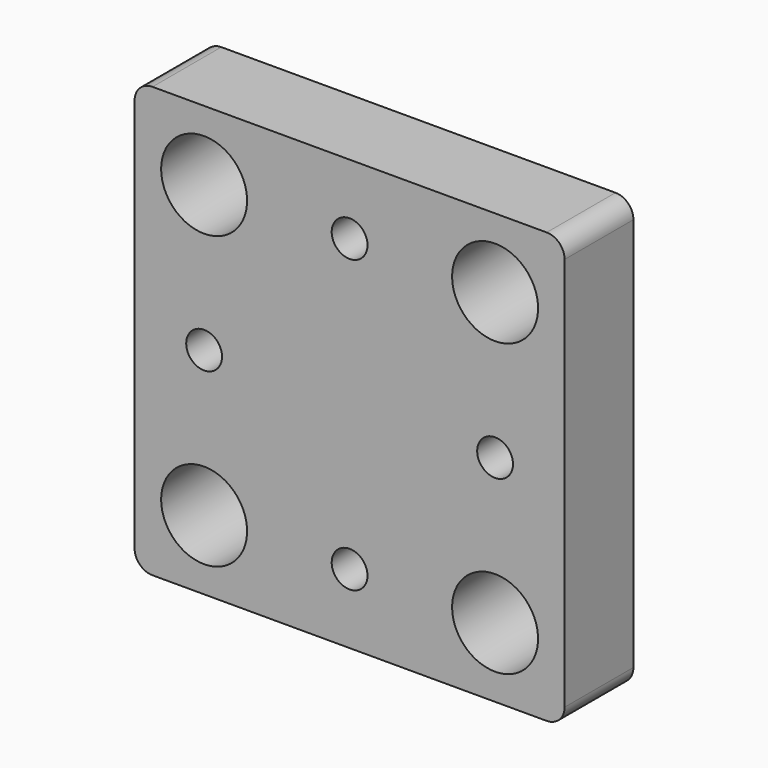
from build123d import *

# Parameters (mm, degrees)
F0_W     = 60
F0_H     = 60
F1_DEPTH = 12
F2_D     = 5
F3_D     = 12
F4_R     = 2.5


with BuildPart() as f1:
    # F0 (on Front) → F1 (new body)
    with BuildSketch(Plane.XZ):
        Rectangle(F0_W, F0_H)
    extrude(amount=F1_DEPTH)

    # F2 (through all)
    with Locations(Plane(origin=(0, 0, 0), x_dir=(1, 0, 0), z_dir=(0, 1, 0))):
        with Locations((0, 20.3), (0, -20.3), (-20.3, 0), (20.3, 0)):
            Hole(F2_D / 2)

    # F3 (through all)
    with Locations(Plane(origin=(0, 0, 0), x_dir=(1, 0, 0), z_dir=(0, 1, 0))):
        with Locations((-20.3, 20.3), (20.3, 20.3), (20.3, -20.3), (-20.3, -20.3)):
            Hole(F3_D / 2)

    # F4
    f4_edges = [f1.edges().sort_by_distance(p)[0] for p in [
        (30, -6, 30),
        (30, -6, -30),
        (-30, -6, -30),
        (-30, -6, 30),
    ]]
    fillet(f4_edges, radius=F4_R)


solid = f1.part
